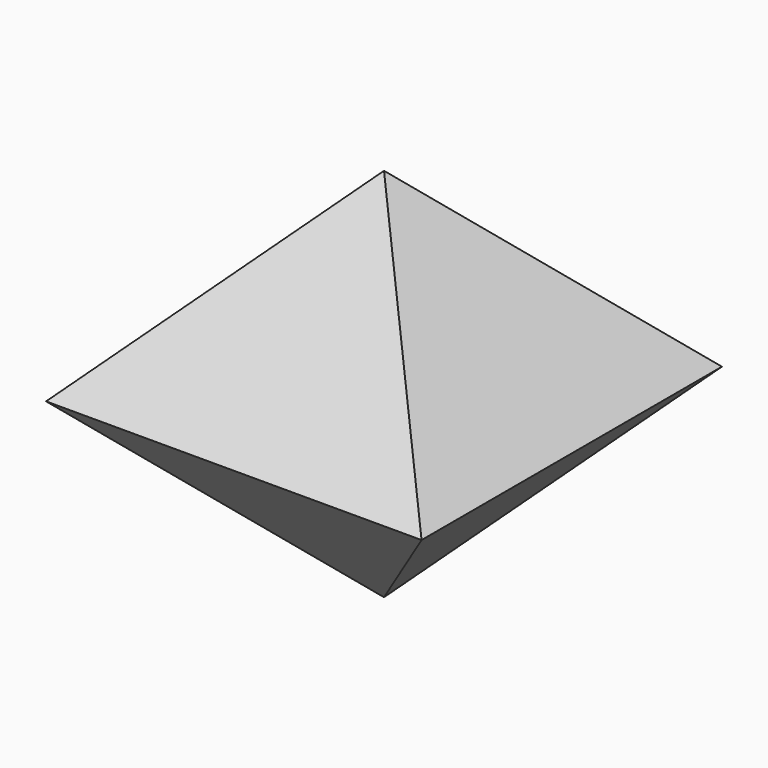
from build123d import *

# Parameters (mm, degrees)
F0_W     = 25.4
F0_H     = 25.4
F1_DEPTH = 25.4
F4_DEPTH = 25.4
F5_DEPTH = 25.4


with BuildPart() as f1:
    # F0 (on Front) → F1 (new body)
    with BuildSketch(Plane.XZ):
        with Locations((-22.479386, 17.278457)):
            Rectangle(F0_W, F0_H)
    extrude(amount=F1_DEPTH)

    # F3 (on face) → F4 (cut)
    with BuildSketch(Plane(origin=(-35.179386, 0, 0), x_dir=(0, -1, 0), z_dir=(-1, 0, 0))):
        Polygon((25.4, 29.978457), (12.7, 29.978457), (25.4, 17.278457), align=None)
        Polygon((0, 17.278457), (12.7, 29.978457), (0, 29.978457), align=None)
        Polygon((12.7, 4.578457), (0, 17.278457), (0, 4.578457), align=None)
        Polygon((25.4, 4.578457), (25.4, 17.278457), (12.7, 4.578457), align=None)
    extrude(amount=-F4_DEPTH, mode=Mode.SUBTRACT)

    # F2 (on face) → F5 (cut)
    with BuildSketch(Plane.XZ.offset(25.4)):
        Polygon((-9.779386, 29.978457), (-22.479386, 29.978457), (-9.779386, 17.278457), align=None)
        Polygon((-9.779386, 4.578457), (-9.779386, 17.278457), (-22.479386, 4.578457), align=None)
        Polygon((-22.479386, 4.578457), (-35.179386, 17.278457), (-35.179386, 4.578457), align=None)
        Polygon((-35.179386, 17.278457), (-22.479386, 29.978457), (-35.179386, 29.978457), align=None)
    extrude(amount=-F5_DEPTH, mode=Mode.SUBTRACT)


solid = f1.part
